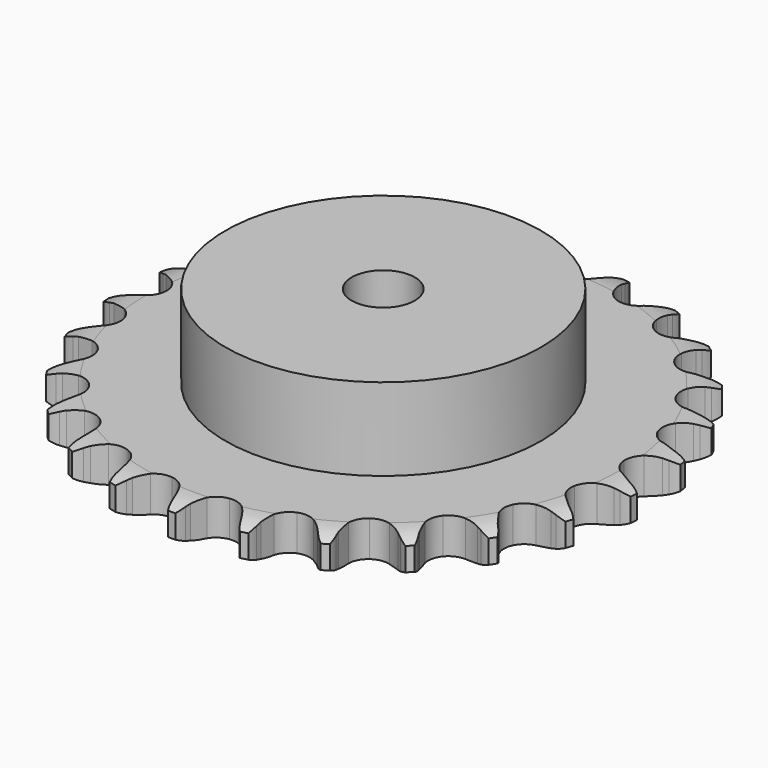
from build123d import *

# Parameters (mm, degrees)
PAD_DEPTH         = 9.1
SKETCH001_R       = 40
PAD001_DEPTH      = 30
SKETCH002_R       = 8
POCKET_DEPTH      = 0.001
POCKET_DEPTH_BACK = 30.001


with BuildPart() as part:
    # Sprocket → Pad (new body)
    with BuildSketch(Plane.XY):
        with BuildLine():
            ThreePointArc((-8.559046, 67.751829), (-7.283896, 66.312342), (-6.373029, 64.618691))
            Line((-6.373029, 64.618691), (-5.879113, 63.37374))
            ThreePointArc((-5.879113, 63.37374), (-5.091642, 61.728687), (-4.086072, 60.20713))
            ThreePointArc((-4.086072, 60.20713), (-2.278937, 58.720089), (0, 58.187667))
            ThreePointArc((0, 58.187667), (2.278937, 58.720089), (4.086072, 60.20713))
            ThreePointArc((4.086072, 60.20713), (5.091642, 61.728687), (5.879113, 63.37374))
            Line((5.879113, 63.37374), (6.373029, 64.618691))
            ThreePointArc((6.373029, 64.618691), (7.283896, 66.312342), (8.559046, 67.751829))
            ThreePointArc((8.559046, 67.751829), (9.43615, 66.040449), (9.897206, 64.173484))
            Line((9.897206, 64.173484), (10.065999, 62.844813))
            ThreePointArc((10.065999, 62.844813), (10.419622, 61.055607), (11.015204, 59.331777))
            ThreePointArc((11.015204, 59.331777), (12.395753, 57.442038), (14.470684, 56.359595))
            ThreePointArc((14.470684, 56.359595), (16.810432, 56.308541), (18.930604, 57.299447))
            Line((18.930604, 57.299447), (21.454818, 59.920661))
            ThreePointArc((21.454818, 59.920661), (21.83515, 60.472111), (22.242824, 61.003668))
            ThreePointArc((22.242824, 61.003668), (23.546267, 62.417587), (25.139343, 63.494732))
            ThreePointArc((25.139343, 63.494732), (25.563288, 61.618992), (25.545563, 59.696021))
            Line((25.545563, 59.696021), (25.378626, 58.367116))
            ThreePointArc((25.378626, 58.367116), (25.276182, 56.546178), (25.424354, 54.72839))
            ThreePointArc((25.424354, 54.72839), (26.291571, 52.554693), (28.032123, 50.990242))
            ThreePointArc((28.032123, 50.990242), (30.285666, 50.358921), (32.585658, 50.79143))
            Line((32.585658, 50.79143), (35.682438, 52.702547))
            ThreePointArc((35.682438, 52.702547), (36.187961, 53.142088), (36.71502, 53.55556))
            ThreePointArc((36.71502, 53.55556), (38.329141, 54.600905), (40.140042, 55.248028))
            ThreePointArc((40.140042, 55.248028), (40.08419, 53.325786), (39.588799, 51.467637))
            Line((39.588799, 51.467637), (39.096621, 50.221998))
            ThreePointArc((39.096621, 50.221998), (38.544547, 48.483745), (38.235998, 46.686217))
            ThreePointArc((38.235998, 46.686217), (38.535394, 44.365143), (39.832199, 42.416984))
            ThreePointArc((39.832199, 42.416984), (41.857941, 41.245064), (44.193234, 41.092))
            Line((44.193234, 41.092), (47.667999, 42.172938))
            ThreePointArc((47.667999, 42.172938), (48.26695, 42.472951), (48.880276, 42.742359))
            ThreePointArc((48.880276, 42.742359), (50.703653, 43.353447), (52.618595, 43.529887))
            ThreePointArc((52.618595, 43.529887), (52.086456, 41.681926), (51.144525, 40.005353))
            Line((51.144525, 40.005353), (50.358032, 38.921247))
            ThreePointArc((50.358032, 38.921247), (49.391016, 37.3749), (48.645134, 35.710578))
            ThreePointArc((48.645134, 35.710578), (48.357896, 33.387967), (49.129473, 31.178511))
            ThreePointArc((49.129473, 31.178511), (50.800127, 29.539627), (53.023988, 28.810609))
            Line((53.023988, 28.810609), (56.658404, 28.993449))
            ThreePointArc((56.658404, 28.993449), (57.313148, 29.135083), (57.974205, 29.243499))
            ThreePointArc((57.974205, 29.243499), (59.892268, 29.381933), (61.790927, 29.076603))
            ThreePointArc((61.790927, 29.076603), (60.815937, 27.419037), (59.486652, 26.029385))
            Line((59.486652, 26.029385), (58.455262, 25.174931))
            ThreePointArc((58.455262, 25.174931), (57.134067, 23.917652), (55.997718, 22.491111))
            ThreePointArc((55.997718, 22.491111), (55.141894, 20.312903), (55.33976, 17.980978))
            ThreePointArc((55.33976, 17.980978), (56.550354, 15.978108), (58.523049, 14.718941))
            Line((58.523049, 14.718941), (62.088754, 13.992194))
            ThreePointArc((62.088754, 13.992194), (62.758151, 13.966551), (63.425401, 13.907162))
            ThreePointArc((63.425401, 13.907162), (65.317632, 13.564244), (67.080709, 12.79633))
            ThreePointArc((67.080709, 12.79633), (65.72413, 11.433309), (64.091015, 10.417895))
            Line((64.091015, 10.417895), (62.879534, 9.846782))
            ThreePointArc((62.879534, 9.846782), (61.287173, 8.957571), (59.831758, 7.858446))
            ThreePointArc((59.831758, 7.858446), (58.461123, 5.961505), (58.072847, 3.653634))
            ThreePointArc((58.072847, 3.653634), (58.747314, 1.412625), (60.344891, -0.297572))
            Line((60.344891, -0.297572), (63.617839, -1.888242))
            ThreePointArc((63.617839, -1.888242), (64.259828, -2.079552), (64.891346, -2.303012))
            ThreePointArc((64.891346, -2.303012), (66.638849, -3.105736), (68.155563, -4.287985))
            ThreePointArc((68.155563, -4.287985), (66.502634, -5.270816), (64.668303, -5.84819))
            Line((64.668303, -5.84819), (63.352853, -6.100077))
            ThreePointArc((63.352853, -6.100077), (61.589381, -6.565348), (59.906349, -7.267995))
            ThreePointArc((59.906349, -7.267995), (58.107025, -8.764477), (57.157004, -10.903282))
            ThreePointArc((57.157004, -10.903282), (57.252965, -13.241618), (58.375043, -15.295387))
            Line((58.375043, -15.295387), (61.149581, -17.650032))
            ThreePointArc((61.149581, -17.650032), (61.723824, -17.994988), (62.279929, -18.368481))
            ThreePointArc((62.279929, -18.368481), (63.772902, -19.580572), (64.947952, -21.102869))
            ThreePointArc((64.947952, -21.102869), (63.102533, -21.643756), (61.182243, -21.746811))
            Line((61.182243, -21.746811), (59.845479, -21.663646))
            ThreePointArc((59.845479, -21.663646), (58.021702, -21.675742), (56.216804, -21.937761))
            ThreePointArc((56.216804, -21.937761), (54.10185, -22.939755), (52.649776, -24.775104))
            ThreePointArc((52.649776, -24.775104), (52.161201, -27.063842), (52.737275, -29.332137))
            Line((52.737275, -29.332137), (54.83907, -32.302806))
            ThreePointArc((54.83907, -32.302806), (55.309485, -32.779733), (55.755235, -33.27979))
            ThreePointArc((55.755235, -33.27979), (56.899869, -34.825088), (57.659423, -36.591782))
            ThreePointArc((57.659423, -36.591782), (55.737467, -36.65674), (53.851879, -36.279))
            Line((53.851879, -36.279), (52.577793, -35.866008))
            ThreePointArc((52.577793, -35.866008), (50.808306, -35.424169), (48.994951, -35.229097))
            ThreePointArc((48.994951, -35.229097), (46.697255, -35.673643), (44.834368, -37.090215))
            ThreePointArc((44.834368, -37.090215), (43.791958, -39.185545), (43.785831, -41.525841))
            Line((43.785831, -41.525841), (45.082818, -44.925876))
            ThreePointArc((45.082818, -44.925876), (45.419848, -45.504807), (45.727235, -46.100007))
            ThreePointArc((45.727235, -46.100007), (46.451608, -47.881416), (46.74794, -49.7815))
            ThreePointArc((46.74794, -49.7815), (44.870212, -49.366445), (43.137802, -48.531646))
            Line((43.137802, -48.531646), (42.006452, -47.814777))
            ThreePointArc((42.006452, -47.814777), (40.402437, -46.946765), (38.694564, -46.306859))
            ThreePointArc((38.694564, -46.306859), (36.358501, -46.166025), (34.201853, -47.074812))
            ThreePointArc((34.201853, -47.074812), (32.671104, -48.845076), (32.083162, -51.110324))
            Line((32.083162, -51.110324), (32.493847, -54.726088))
            ThreePointArc((32.493847, -54.726088), (32.676314, -55.370647), (32.826024, -56.023591))
            ThreePointArc((32.826024, -56.023591), (33.084621, -57.929178), (32.899112, -59.843262))
            ThreePointArc((32.899112, -59.843262), (31.183596, -58.974275), (29.713219, -57.73487))
            Line((29.713219, -57.73487), (28.79569, -56.759167))
            ThreePointArc((28.79569, -56.759167), (27.457934, -55.519524), (25.962856, -54.47499))
            ThreePointArc((25.962856, -54.47499), (23.735208, -53.757626), (21.420309, -54.101525))
            ThreePointArc((21.420309, -54.101525), (19.497405, -55.435491), (18.364589, -57.483357))
            Line((18.364589, -57.483357), (17.863169, -61.087659))
            ThreePointArc((17.863169, -61.087659), (17.879608, -61.757345), (17.862234, -62.427008))
            ThreePointArc((17.862234, -62.427008), (17.638806, -64.337037), (16.983112, -66.144852))
            ThreePointArc((16.983112, -66.144852), (15.5376, -64.876535), (14.421646, -63.310401))
            Line((14.421646, -63.310401), (13.77559, -62.137171))
            ThreePointArc((13.77559, -62.137171), (12.788149, -60.603786), (11.599806, -59.220258))
            ThreePointArc((11.599806, -59.220258), (9.620545, -57.971438), (7.292849, -57.72884))
            ThreePointArc((7.292849, -57.72884), (5.098612, -58.542691), (3.492103, -60.244499))
            Line((3.492103, -60.244499), (2.110081, -63.610867))
            ThreePointArc((2.110081, -63.610867), (1.95946, -64.263602), (1.776093, -64.907905))
            ThreePointArc((1.776093, -64.907905), (1.08468, -66.702363), (0, -68.290318))
            ThreePointArc((0, -68.290318), (-1.08468, -66.702363), (-1.776093, -64.907905))
            Line((-1.776093, -64.907905), (-2.110081, -63.610867))
            ThreePointArc((-2.110081, -63.610867), (-2.685163, -61.88009), (-3.492103, -60.244499))
            ThreePointArc((-3.492103, -60.244499), (-5.098612, -58.542691), (-7.292849, -57.72884))
            ThreePointArc((-7.292849, -57.72884), (-9.620545, -57.971438), (-11.599806, -59.220258))
            Line((-11.599806, -59.220258), (-13.77559, -62.137171))
            ThreePointArc((-13.77559, -62.137171), (-14.083808, -62.731941), (-14.421646, -63.310401))
            ThreePointArc((-14.421646, -63.310401), (-15.5376, -64.876535), (-16.983112, -66.144852))
            ThreePointArc((-16.983112, -66.144852), (-17.638806, -64.337037), (-17.862234, -62.427008))
            Line((-17.862234, -62.427008), (-17.863169, -61.087659))
            ThreePointArc((-17.863169, -61.087659), (-17.989757, -59.26824), (-18.364589, -57.483357))
            ThreePointArc((-18.364589, -57.483357), (-19.497405, -55.435491), (-21.420309, -54.101525))
            ThreePointArc((-21.420309, -54.101525), (-23.735208, -53.757626), (-25.962856, -54.47499))
            Line((-25.962856, -54.47499), (-28.79569, -56.759167))
            ThreePointArc((-28.79569, -56.759167), (-29.242139, -57.258601), (-29.713219, -57.73487))
            ThreePointArc((-29.713219, -57.73487), (-31.183596, -58.974275), (-32.899112, -59.843262))
            ThreePointArc((-32.899112, -59.843262), (-33.084621, -57.929178), (-32.826024, -56.023591))
            Line((-32.826024, -56.023591), (-32.493847, -54.726088))
            ThreePointArc((-32.493847, -54.726088), (-32.163987, -52.932349), (-32.083162, -51.110324))
            ThreePointArc((-32.083162, -51.110324), (-32.671104, -48.845076), (-34.201853, -47.074812))
            ThreePointArc((-34.201853, -47.074812), (-36.358501, -46.166025), (-38.694564, -46.306859))
            Line((-38.694564, -46.306859), (-42.006452, -47.814777))
            ThreePointArc((-42.006452, -47.814777), (-42.563078, -48.187492), (-43.137802, -48.531646))
            ThreePointArc((-43.137802, -48.531646), (-44.870212, -49.366445), (-46.74794, -49.7815))
            ThreePointArc((-46.74794, -49.7815), (-46.451608, -47.881416), (-45.727235, -46.100007))
            Line((-45.727235, -46.100007), (-45.082818, -44.925876))
            ThreePointArc((-45.082818, -44.925876), (-44.317237, -43.270524), (-43.785831, -41.525841))
            ThreePointArc((-43.785831, -41.525841), (-43.791958, -39.185545), (-44.834368, -37.090215))
            ThreePointArc((-44.834368, -37.090215), (-46.697255, -35.673643), (-48.994951, -35.229097))
            Line((-48.994951, -35.229097), (-52.577793, -35.866008))
            ThreePointArc((-52.577793, -35.866008), (-53.209623, -36.088587), (-53.851879, -36.279))
            ThreePointArc((-53.851879, -36.279), (-55.737467, -36.65674), (-57.659423, -36.591782))
            ThreePointArc((-57.659423, -36.591782), (-56.899869, -34.825088), (-55.755235, -33.27979))
            Line((-55.755235, -33.27979), (-54.83907, -32.302806))
            ThreePointArc((-54.83907, -32.302806), (-53.685871, -30.889852), (-52.737275, -29.332137))
            ThreePointArc((-52.737275, -29.332137), (-52.161201, -27.063842), (-52.649776, -24.775104))
            ThreePointArc((-52.649776, -24.775104), (-54.10185, -22.939755), (-56.216804, -21.937761))
            Line((-56.216804, -21.937761), (-59.845479, -21.663646))
            ThreePointArc((-59.845479, -21.663646), (-60.512811, -21.722102), (-61.182243, -21.746811))
            ThreePointArc((-61.182243, -21.746811), (-63.102533, -21.643756), (-64.947952, -21.102869))
            ThreePointArc((-64.947952, -21.102869), (-63.772902, -19.580572), (-62.279929, -18.368481))
            Line((-62.279929, -18.368481), (-61.149581, -17.650032))
            ThreePointArc((-61.149581, -17.650032), (-59.681224, -16.568257), (-58.375043, -15.295387))
            ThreePointArc((-58.375043, -15.295387), (-57.252965, -13.241618), (-57.157004, -10.903282))
            ThreePointArc((-57.157004, -10.903282), (-58.107025, -8.764477), (-59.906349, -7.267995))
            Line((-59.906349, -7.267995), (-63.352853, -6.100077))
            ThreePointArc((-63.352853, -6.100077), (-64.013757, -5.990738), (-64.668303, -5.84819))
            ThreePointArc((-64.668303, -5.84819), (-66.502634, -5.270816), (-68.155563, -4.287985))
            ThreePointArc((-68.155563, -4.287985), (-66.638849, -3.105736), (-64.891346, -2.303012))
            Line((-64.891346, -2.303012), (-63.617839, -1.888242))
            ThreePointArc((-63.617839, -1.888242), (-61.926587, -1.205618), (-60.344891, -0.297572))
            ThreePointArc((-60.344891, -0.297572), (-58.747314, 1.412625), (-58.072847, 3.653634))
            ThreePointArc((-58.072847, 3.653634), (-58.461123, 5.961505), (-59.831758, 7.858446))
            Line((-59.831758, 7.858446), (-62.879534, 9.846782))
            ThreePointArc((-62.879534, 9.846782), (-63.492483, 10.117046), (-64.091015, 10.417895))
            ThreePointArc((-64.091015, 10.417895), (-65.72413, 11.433309), (-67.080709, 12.79633))
            ThreePointArc((-67.080709, 12.79633), (-65.317632, 13.564244), (-63.425401, 13.907162))
            Line((-63.425401, 13.907162), (-62.088754, 13.992194))
            ThreePointArc((-62.088754, 13.992194), (-60.280874, 14.232774), (-58.523049, 14.718941))
            ThreePointArc((-58.523049, 14.718941), (-56.550354, 15.978108), (-55.33976, 17.980978))
            ThreePointArc((-55.33976, 17.980978), (-55.141894, 20.312903), (-55.997718, 22.491111))
            Line((-55.997718, 22.491111), (-58.455262, 25.174931))
            ThreePointArc((-58.455262, 25.174931), (-58.981743, 25.589139), (-59.486652, 26.029385))
            ThreePointArc((-59.486652, 26.029385), (-60.815937, 27.419037), (-61.790927, 29.076603))
            ThreePointArc((-61.790927, 29.076603), (-59.892268, 29.381933), (-57.974205, 29.243499))
            Line((-57.974205, 29.243499), (-56.658404, 28.993449))
            ThreePointArc((-56.658404, 28.993449), (-54.847493, 28.776869), (-53.023988, 28.810609))
            ThreePointArc((-53.023988, 28.810609), (-50.800127, 29.539627), (-49.129473, 31.178511))
            ThreePointArc((-49.129473, 31.178511), (-48.357896, 33.387967), (-48.645134, 35.710578))
            Line((-48.645134, 35.710578), (-50.358032, 38.921247))
            ThreePointArc((-50.358032, 38.921247), (-50.764963, 39.453372), (-51.144525, 40.005353))
            ThreePointArc((-51.144525, 40.005353), (-52.086456, 41.681926), (-52.618595, 43.529887))
            ThreePointArc((-52.618595, 43.529887), (-50.703653, 43.353447), (-48.880276, 42.742359))
            Line((-48.880276, 42.742359), (-47.667999, 42.172938))
            ThreePointArc((-47.667999, 42.172938), (-45.967841, 41.512808), (-44.193234, 41.092))
            ThreePointArc((-44.193234, 41.092), (-41.857941, 41.245064), (-39.832199, 42.416984))
            ThreePointArc((-39.832199, 42.416984), (-38.535394, 44.365143), (-38.235998, 46.686217))
            Line((-38.235998, 46.686217), (-39.096621, 50.221998))
            ThreePointArc((-39.096621, 50.221998), (-39.358434, 50.838605), (-39.588799, 51.467637))
            ThreePointArc((-39.588799, 51.467637), (-40.08419, 53.325786), (-40.140042, 55.248028))
            ThreePointArc((-40.140042, 55.248028), (-38.329141, 54.600905), (-36.71502, 53.55556))
            Line((-36.71502, 53.55556), (-35.682438, 52.702547))
            ThreePointArc((-35.682438, 52.702547), (-34.199862, 51.640344), (-32.585658, 50.79143))
            ThreePointArc((-32.585658, 50.79143), (-30.285666, 50.358921), (-28.032123, 50.990242))
            ThreePointArc((-28.032123, 50.990242), (-26.291571, 52.554693), (-25.424354, 54.72839))
            Line((-25.424354, 54.72839), (-25.378626, 58.367116))
            ThreePointArc((-25.378626, 58.367116), (-25.478869, 59.029461), (-25.545563, 59.696021))
            ThreePointArc((-25.545563, 59.696021), (-25.563288, 61.618992), (-25.139343, 63.494732))
            ThreePointArc((-25.139343, 63.494732), (-23.546267, 62.417587), (-22.242824, 61.003668))
            Line((-22.242824, 61.003668), (-21.454818, 59.920661))
            ThreePointArc((-21.454818, 59.920661), (-20.282979, 58.523127), (-18.930604, 57.299447))
            ThreePointArc((-18.930604, 57.299447), (-16.810432, 56.308541), (-14.470684, 56.359595))
            ThreePointArc((-14.470684, 56.359595), (-12.395753, 57.442038), (-11.015204, 59.331777))
            Line((-11.015204, 59.331777), (-10.065999, 62.844813))
            ThreePointArc((-10.065999, 62.844813), (-9.998374, 63.511279), (-9.897206, 64.173484))
            ThreePointArc((-9.897206, 64.173484), (-9.43615, 66.040449), (-8.559046, 67.751829))
        make_face()
    extrude(amount=PAD_DEPTH)

    # Sketch → Groove (revolve, cut)
    with BuildSketch(Plane.XZ):
        with BuildLine():
            Line((60.025762, 0), (67, 0))
            Line((73.974238, 0), (67, 0))
            Line((73.974238, 9.1), (73.974238, 0))
            Line((67, 9.1), (73.974238, 9.1))
            Line((60.025762, 9.1), (67, 9.1))
            ThreePointArc((67, 7.5), (63.60347, 8.694871), (60.025762, 9.1))
            Line((67, 1.6), (67, 7.5))
            ThreePointArc((60.025762, 0), (63.60347, 0.405129), (67, 1.6))
        make_face()
    revolve(axis=Axis((0, 0, 0), (0, 0, 1)), mode=Mode.SUBTRACT)

    # Sketch001 → Pad001 (join)
    with BuildSketch(Plane.XY):
        Circle(SKETCH001_R)
    extrude(amount=PAD001_DEPTH)

    # Sketch002 → Pocket (cut, two sides)
    with BuildSketch(Plane.XY) as pocket_sk:
        Circle(SKETCH002_R)
    extrude(amount=-POCKET_DEPTH, mode=Mode.SUBTRACT)
    extrude(pocket_sk.sketch, amount=POCKET_DEPTH_BACK, mode=Mode.SUBTRACT)


solid = part.part
